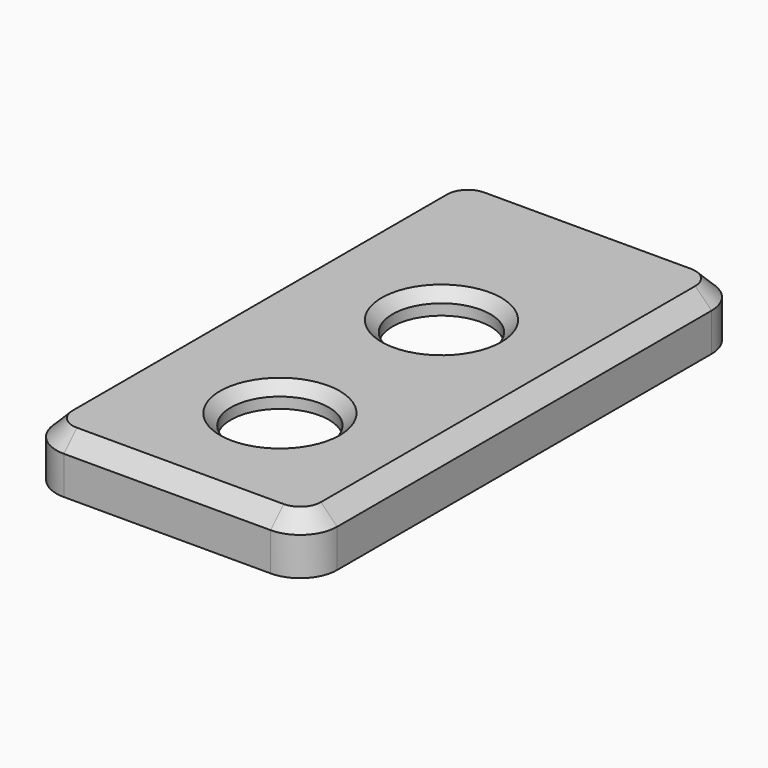
from build123d import *

# Parameters (mm, degrees)
PAD014_DEPTH    = 5
THICKNESS001_T  = -2
SKETCH029_R     = 4.5
POCKET011_DEPTH = 5.001
SKETCH030_R     = 3
PAD015_DEPTH    = 3
SKETCH031_R     = 1.65
POCKET012_DEPTH = 3.3
POCKET_DEPTH    = 2
CHAMFER_SIZE    = 1
CHAMFER002_SIZE = 1.5


with BuildPart() as part:
    # Sketch027 → Pad014 (new body)
    with BuildSketch(Plane(origin=(0, 0, 0), x_dir=(-1, 0, 0), z_dir=(0, 0, 1))):
        with BuildLine():
            Line((-23.4, -44.000002), (-23.4, -1))
            ThreePointArc((-20, 2.4), (-22.404163, 1.404163), (-23.4, -1))
            Line((-20, 2.4), (-1, 2.4))
            ThreePointArc((2.4, -1), (1.404163, 1.404163), (-1, 2.4))
            Line((2.4, -1), (2.4, -44.000001))
            ThreePointArc((-0.999999, -47.4), (1.404163, -46.404163), (2.4, -44.000001))
            Line((-0.999999, -47.4), (-20.000001, -47.4))
            ThreePointArc((-23.4, -44.000002), (-22.404163, -46.404164), (-20.000001, -47.4))
        make_face()
    extrude(amount=PAD014_DEPTH)

    # Thickness001
    thickness001_openings = [part.faces().sort_by_distance(p)[0] for p in [
        (10.5, 22.5, 0),
    ]]
    offset(amount=THICKNESS001_T, openings=thickness001_openings)

    # Sketch029 (on Face9 of Thickness001) → Pocket011 (cut, through all)
    with BuildSketch(Plane.XY.offset(5)):
        with Locations((10.964466, 9.964466)):
            Circle(SKETCH029_R)
        with Locations((10.964466, 28.52028)):
            Circle(SKETCH029_R)
    extrude(amount=-POCKET011_DEPTH, mode=Mode.SUBTRACT)

    # Sketch030 (on Face4 of Pocket011) → Pad015 (join)
    with BuildSketch(Plane(origin=(0, 0, 0), x_dir=(1, 0, 0), z_dir=(0, 0, -1))):
        with Locations((3, -3)):
            Circle(SKETCH030_R)
        with Locations((18, -3)):
            Circle(SKETCH030_R)
        with Locations((18, -42)):
            Circle(SKETCH030_R)
        with Locations((3, -42)):
            Circle(SKETCH030_R)
    extrude(amount=-PAD015_DEPTH)

    # Sketch031 (on Face27 of Pad015) → Pocket012 (cut)
    with BuildSketch(Plane(origin=(0, 0, 0), x_dir=(1, 0, 0), z_dir=(0, 0, -1))):
        with Locations((3, -3)):
            Circle(SKETCH031_R)
        with Locations((18, -3)):
            Circle(SKETCH031_R)
        with Locations((18, -42)):
            Circle(SKETCH031_R)
        with Locations((3, -42)):
            Circle(SKETCH031_R)
    extrude(amount=-POCKET012_DEPTH, mode=Mode.SUBTRACT)

    # Sketch033 (on Face6 of Pocket012) → Pocket (cut)
    with BuildSketch(Plane(origin=(0, 47.4, 0), x_dir=(-1, 0, 0), z_dir=(0, 1, 0))):
        with BuildLine():
            Line((-14.661912, 0), (-7.262061, 0))
            Line((-7.262061, 0), (-7.262061, 1.787056))
            ThreePointArc((-7.262061, 1.787056), (-7.348276, 1.995197), (-7.556417, 2.081412))
            Line((-7.556417, 2.081412), (-14.367556, 2.081412))
            ThreePointArc((-14.367556, 2.081412), (-14.575697, 1.995197), (-14.661912, 1.787056))
            Line((-14.661912, 1.787056), (-14.661912, 0))
        make_face()
    extrude(amount=-POCKET_DEPTH, mode=Mode.SUBTRACT)

    # Chamfer
    chamfer_edges = [part.edges().sort_by_distance(p)[0] for p in [
        (6.464466, 28.52028, 5),
        (6.464466, 9.964466, 5),
    ]]
    chamfer(chamfer_edges, length=CHAMFER_SIZE)

    # Chamfer002
    chamfer002_edges = [part.edges().sort_by_distance(p)[0] for p in [
        (10.5, 47.4, 5),
    ]]
    chamfer(chamfer002_edges, length=CHAMFER002_SIZE)


solid = part.part
